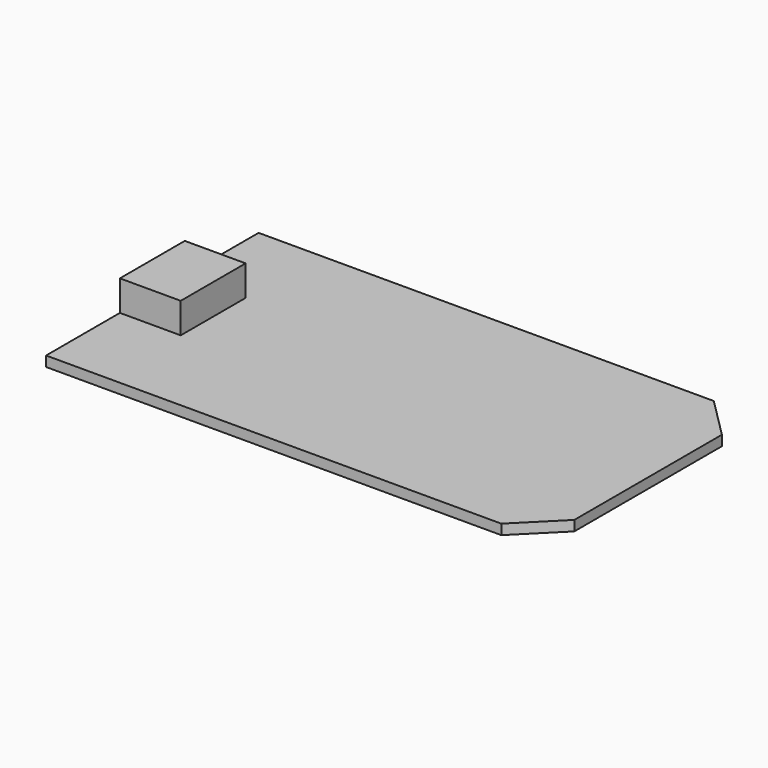
from build123d import *

# Parameters (mm, degrees)
F0_W     = 48.9
F0_H     = 26.2
F1_DEPTH = 1
F2_SIZE  = 4
F3_W     = 6
F3_H     = 8
F4_DEPTH = 3


with BuildPart() as f1:
    # F0 (on Top) → F1 (new body)
    with BuildSketch(Plane.XY):
        Rectangle(F0_W, F0_H)
    extrude(amount=F1_DEPTH)

    # F2
    f2_edges = [f1.edges().sort_by_distance(p)[0] for p in [
        (24.45, 13.1, 0.5),
        (24.45, -13.1, 0.5),
    ]]
    chamfer(f2_edges, length=F2_SIZE)

    # F3 (on face) → F4 (join)
    with BuildSketch(Plane.XY.offset(1)):
        with Locations((-21.45, 0)):
            Rectangle(F3_W, F3_H)
    extrude(amount=F4_DEPTH)


solid = f1.part
